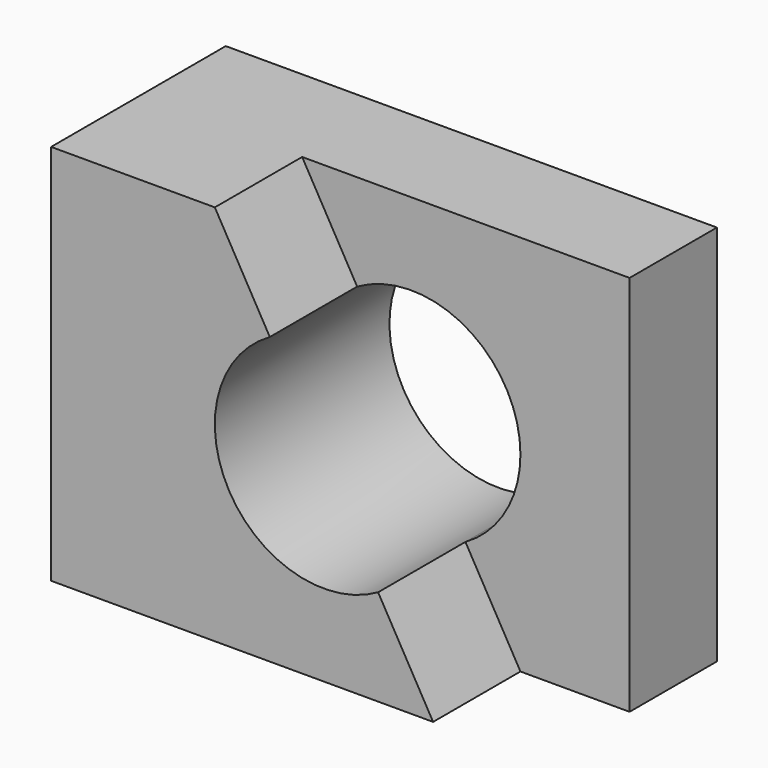
from build123d import *

# Parameters (mm, degrees)
F0_W     = 25.4
F0_H     = 44.45
F1_DEPTH = 57.15
F3_DEPTH = 12.7
F5_DEPTH = 25.4


with BuildPart() as f1:
    # F0 (on Right) → F1 (new body)
    with BuildSketch(Plane.YZ):
        with Locations((12.7, 22.225)):
            Rectangle(F0_W, F0_H)
    extrude(amount=F1_DEPTH)

    # F2 (on face) → F3 (cut)
    with BuildSketch(Plane.XZ):
        Polygon((57.15, 44.45), (19.05, 44.45), (44.45, 0), (57.15, 0), align=None)
    extrude(amount=-F3_DEPTH, mode=Mode.SUBTRACT)

    # F4 (on face) → F5 (cut)
    with BuildSketch(Plane.XZ):
        with BuildLine():
            ThreePointArc((38.050965, 11.198312), (42.734358, 15.850529), (44.45, 22.225))
            ThreePointArc((44.45, 22.225), (38.124471, 33.209358), (25.449035, 33.251688))
            Line((25.449035, 33.251688), (38.050965, 11.198312))
        make_face()
        with BuildLine():
            Line((38.050965, 11.198312), (25.449035, 33.251688))
            ThreePointArc((25.449035, 33.251688), (20.723312, 15.924035), (38.050965, 11.198312))
        make_face()
    extrude(amount=-F5_DEPTH, mode=Mode.SUBTRACT)


solid = f1.part
